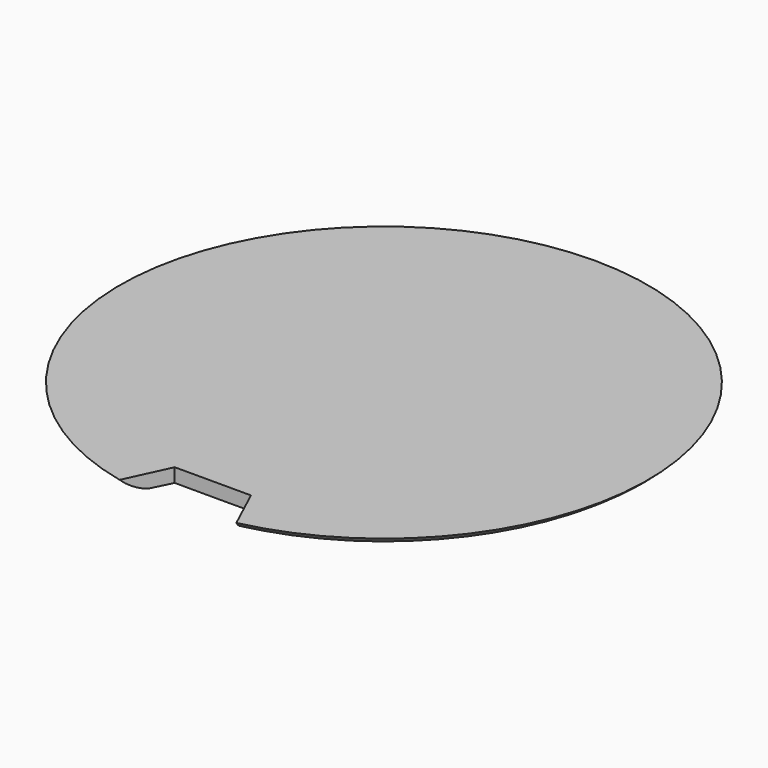
from build123d import *

# Parameters (mm, degrees)
F3_DEPTH = 12.7


with BuildPart() as f1:
    # F0 (on Front) → F1 (revolve)
    with BuildSketch(Plane.XZ):
        with BuildLine():
            Line((0, -13.020074), (0, 0))
            Line((0, 0), (-88.9, 0))
            ThreePointArc((-88.9, 0), (-85.148599, -2.814394), (-80.791734, -4.549779))
            Line((-80.791734, -4.549779), (-59.369671, -4.866548))
            ThreePointArc((-59.369671, -4.866548), (-57.700515, -6.645014), (-55.615832, -7.911156))
            Line((-55.615832, -7.911156), (-22.862497, -7.911156))
            Line((-22.862497, -7.911156), (-9.945364, -9.144532))
            ThreePointArc((-9.945364, -9.144532), (-10.741905, -9.941073), (-9.945364, -10.737614))
            Line((-9.945364, -10.737614), (-6.437971, -10.737614))
            ThreePointArc((-6.437971, -10.737614), (-3.361209, -12.280004), (0, -13.020074))
        make_face()
    revolve(axis=Axis((0, 0, 10.078529), (0, 0, 1)))

    # F2 (on Top) → F3 (cut, symmetric)
    with BuildSketch(Plane.XY):
        Polygon((-12.843058, -72.02445), (-21.21103, -90.091659), (0, -96.038029), (0, -72.02445), align=None)
        Polygon((0, -72.02445), (0, -96.038029), (21.21103, -90.091659), (12.843058, -72.02445), align=None)
    extrude(amount=F3_DEPTH, both=True, mode=Mode.SUBTRACT)


solid = f1.part
